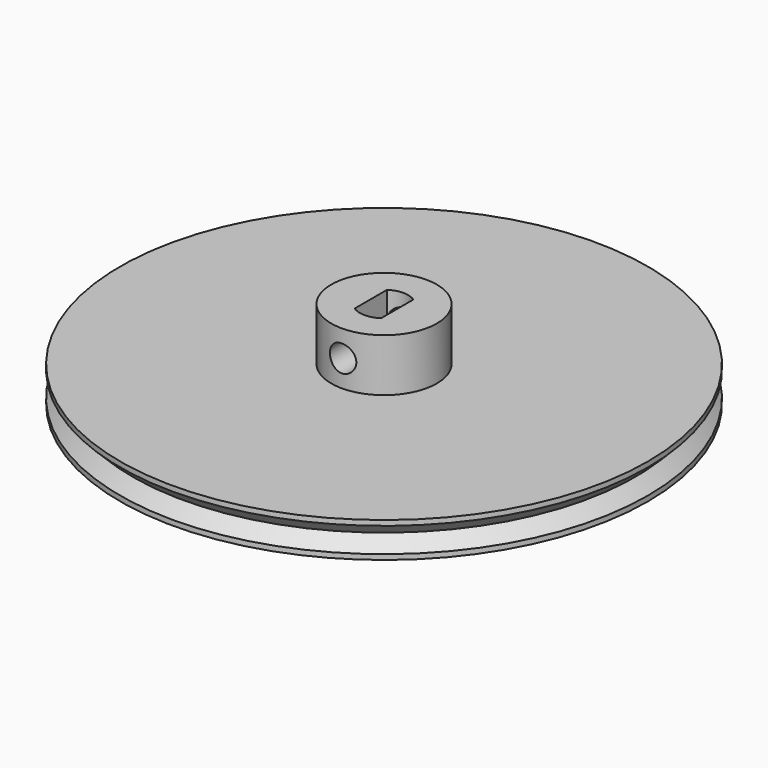
from build123d import *

# Parameters (mm, degrees)
F0_R     = 30
F0_R_2   = 6
F1_DEPTH = 4
F2_DEPTH = 6
F3_R     = 1.5
F4_DEPTH = 12.5
F5_W     = 3
F5_H     = 4.6
F6_DEPTH = 9.4


with BuildPart() as f1:
    # F0 (on Top) → F1 (new body)
    with BuildSketch(Plane.XY):
        Circle(F0_R)
        Circle(F0_R_2, mode=Mode.SUBTRACT)
    extrude(amount=-F1_DEPTH)

    # F7 (on Front) → F8 (revolve, cut)
    with BuildSketch(Plane.XZ):
        Polygon((-30, -0.585786), (-30, -3.414214), (-28.585786, -2), align=None)
    revolve(axis=Axis((0, 0, 1.456971), (0, 0, -1)), mode=Mode.SUBTRACT)


with BuildPart() as f2:
    # F0 (on Top) → F2 (new body)
    with BuildSketch(Plane.XY):
        Circle(F0_R_2)
    extrude(amount=F2_DEPTH)

    # F3 (on Front) → F4 (cut, symmetric)
    with BuildSketch(Plane.XZ):
        with Locations((0, 3)):
            Circle(F3_R)
    extrude(amount=F4_DEPTH, both=True, mode=Mode.SUBTRACT)

    # F5 (on face) → F6 (cut)
    with BuildSketch(Plane.XY.offset(6)):
        Rectangle(F5_W, F5_H)
        with BuildLine():
            Line((1.5, -2.3), (-1.5, -2.3))
            ThreePointArc((-1.5, -2.3), (0, -2.754094), (1.5, -2.3))
        make_face()
        with BuildLine():
            ThreePointArc((1.5, 2.3), (0, 2.745906), (-1.5, 2.3))
            Line((-1.5, 2.3), (1.5, 2.3))
        make_face()
    extrude(amount=-F6_DEPTH, mode=Mode.SUBTRACT)


solid = Compound([f1.part, f2.part])
